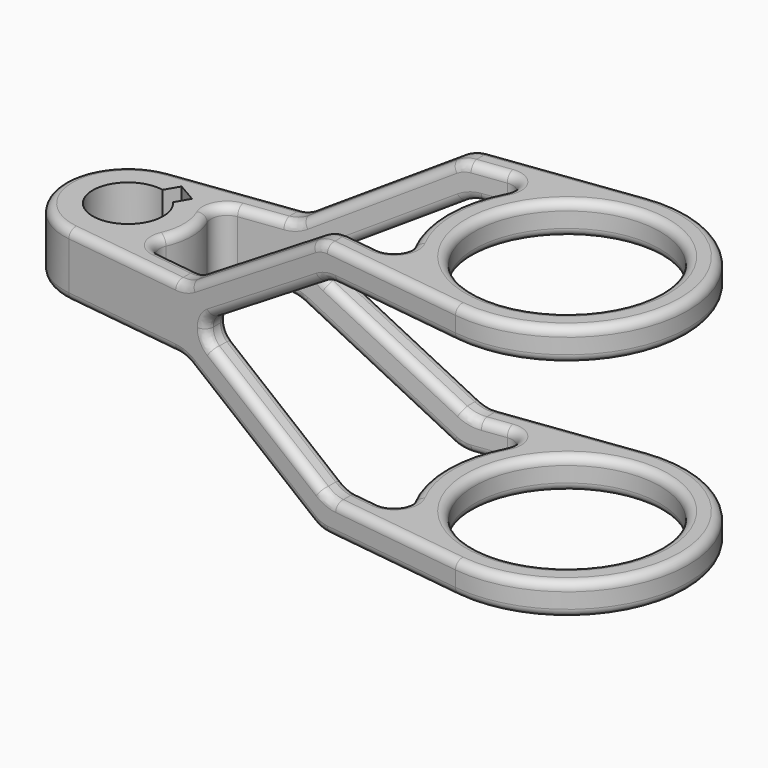
from build123d import *

# Parameters (mm, degrees)
SKETCH_R     = 36.83
PAD_DEPTH    = 69.85
PAD001_DEPTH = 50.8
FILLET_R     = 3.302


with BuildPart() as body:
    # Sketch → Pad (new body, symmetric)
    with BuildSketch(Plane.XY):
        with BuildLine():
            ThreePointArc((-3.295336, 25.185328), (-25.4, 0), (-3.295335, -25.185328))
            Line((-3.295335, -25.185328), (168.015816, -47.600271))
            ThreePointArc((168.015816, -47.600271), (222.25, 0), (168.015816, 47.600271))
            Line((-3.295336, 25.185328), (168.015816, 47.600271))
        make_face()
        with Locations((174.244, 0)):
            Circle(SKETCH_R, mode=Mode.SUBTRACT)
        with BuildLine():
            ThreePointArc((2.772505, 13.692119), (-6.985, -12.098375), (10.47147, 9.247119))
            Line((13.628483, 14.715225), (10.47147, 9.247119))
            Line((5.929517, 19.160225), (13.628483, 14.715225))
            Line((2.772505, 13.692119), (5.929517, 19.160225))
        make_face(mode=Mode.SUBTRACT)
        with BuildLine():
            ThreePointArc((23.255208, -10.215444), (25.4, 0), (23.255208, 10.215444))
            ThreePointArc((28.24518, 19.065629), (23.537648, 15.888029), (23.255208, 10.215444))
            Line((28.24518, 19.065629), (125.098751, 31.738284))
            ThreePointArc((131.541353, 22.483583), (131.134132, 29.069938), (125.098751, 31.738284))
            ThreePointArc((131.541353, 22.483583), (125.984, 9e-06), (131.541344, -22.483568))
            ThreePointArc((125.098751, -31.738253), (131.134123, -29.069912), (131.541344, -22.483568))
            Line((28.24518, -19.065598), (125.098751, -31.738253))
            ThreePointArc((23.255208, -10.215444), (23.53766, -15.888011), (28.24518, -19.065598))
        make_face(mode=Mode.SUBTRACT)
    extrude(amount=PAD_DEPTH, both=True)


with BuildPart() as body001:
    # Sketch001 → Pad001 (new body, symmetric)
    with BuildSketch(Plane.XZ):
        with BuildLine():
            Line((44.45, 12.7), (-31.75, 12.7))
            Line((-31.75, 12.7), (-31.75, -12.7))
            Line((-31.75, -12.7), (44.45, -12.7))
            ThreePointArc((51.273706, -14.688928), (48.003829, -13.207367), (44.45, -12.7))
            Line((51.273706, -14.688928), (104.834744, -48.811072))
            ThreePointArc((104.834744, -48.811072), (108.104619, -50.292633), (111.658447, -50.8))
            Line((111.658447, -50.8), (247.65, -50.8))
            Line((247.65, -50.8), (247.65, -38.1))
            Line((247.65, -38.1), (115.360159, -38.1))
            ThreePointArc((108.536454, -36.111071), (111.806331, -37.592633), (115.360159, -38.1))
            Line((108.536454, -36.111071), (60.259933, -5.355535))
            ThreePointArc((57.321786, 0), (58.104571, -3.054278), (60.259933, -5.355535))
            ThreePointArc((60.259933, 5.355535), (58.104571, 3.054278), (57.321786, 0))
            Line((60.259933, 5.355535), (108.536449, 36.111079))
            ThreePointArc((115.360159, 38.100009), (111.806328, 37.592642), (108.536449, 36.111079))
            Line((115.360159, 38.100009), (247.65, 38.100009))
            Line((247.65, 38.100009), (247.65, 50.800009))
            Line((247.65, 50.800009), (111.658447, 50.800009))
            ThreePointArc((111.658447, 50.800009), (108.104619, 50.292642), (104.834744, 48.811081))
            Line((104.834744, 48.811081), (51.273701, 14.688946))
            ThreePointArc((44.45, 12.7), (48.003828, 13.207376), (51.273701, 14.688946))
        make_face()
    extrude(amount=PAD001_DEPTH, both=True)

    # Boolean: intersect Body
    add(body.part, mode=Mode.INTERSECT)

    # Fillet
    fillet_edges = [body001.edges().sort_by_distance(p)[0] for p in [
        (20.577332, -28.308911, -12.7),
        (48.001667, -31.897205, -13.206737),
        (78.054225, -35.829386, -31.75),
        (108.106782, -39.761566, -50.293263),
        (139.837132, -43.913274, -50.8),
        (168.015816, -47.600271, -44.45),
        (141.687988, -44.155447, -38.1),
        (111.808493, -40.24591, -37.593263),
        (84.398194, -36.659452, -20.733303),
        (58.107112, -33.219436, -3.058906),
        (58.107112, -33.219436, 3.058906),
        (84.398191, -36.659452, 20.733307),
        (111.80849, -40.24591, 37.593272),
        (141.687988, -44.155447, 38.100009),
        (168.015816, -47.600271, 44.450009),
        (139.837132, -43.913274, 50.800009),
        (108.106782, -39.761566, 50.293272),
        (78.054222, -35.829385, 31.750014),
        (48.001665, -31.897205, 13.206746),
        (20.577332, -28.308911, 12.7),
        (-3.295335, -25.185328, 0),
        (36.34759, 20.125776, -12.7),
        (48.001667, 21.650636, -13.206737),
        (78.054225, 25.582816, -31.75),
        (108.106782, 29.514996, -50.293263),
        (118.378599, 30.858997, -50.8),
        (125.098751, 31.738284, -44.45),
        (120.229455, 31.101169, -38.1),
        (111.808493, 29.999341, -37.593263),
        (84.398194, 26.412883, -20.733303),
        (58.107112, 22.972867, -3.058906),
        (58.107112, 22.972867, 3.058906),
        (84.398191, 26.412883, 20.733307),
        (111.80849, 29.999341, 37.593272),
        (120.229455, 31.101169, 38.100009),
        (125.098751, 31.738284, 44.450009),
        (118.378599, 30.858997, 50.800009),
        (108.106782, 29.514996, 50.293272),
        (78.054222, 25.582816, 31.750014),
        (48.001665, 21.650636, 13.206746),
        (36.34759, 20.125776, 12.7),
        (28.24518, 19.065629, 0),
        (137.414, 0, 38.100009),
        (211.074, 0, 44.450009),
        (137.414, 0, 50.800009),
        (137.414, 0, -50.8),
        (211.074, 0, -44.45),
        (137.414, 0, -38.1),
    ]]
    fillet(fillet_edges, radius=FILLET_R)


solid = body001.part
